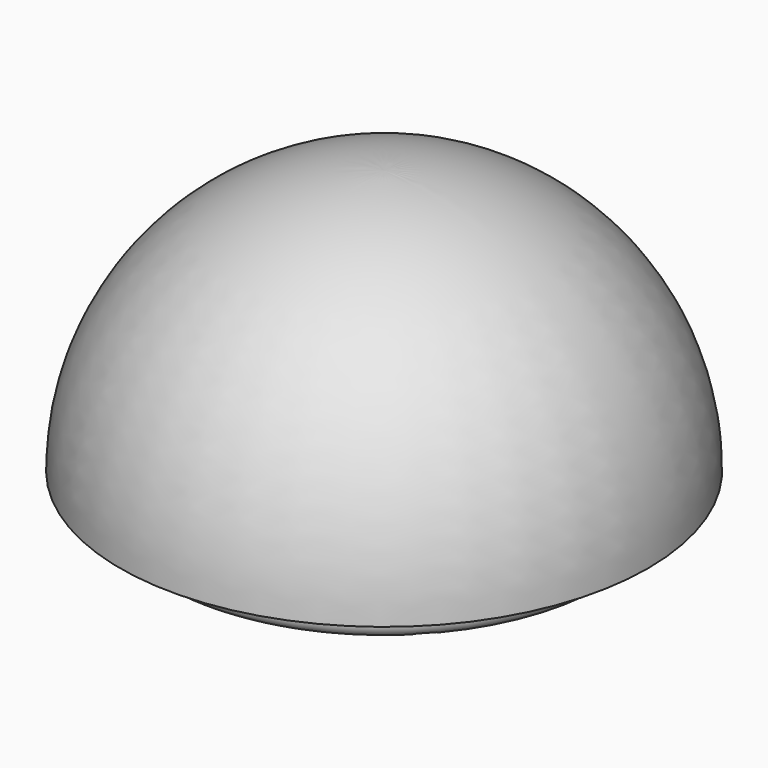
from build123d import *

# Parameters (mm, degrees)
F2_R = 1.27
F3_R = 1.27


with BuildPart() as f1:
    # F0 (on Front) → F1 (revolve)
    with BuildSketch(Plane.XZ):
        with BuildLine():
            Line((0, -3.175), (21.59, -3.175))
            Line((21.59, -3.175), (21.59, 0))
            Line((21.59, 0), (25.4, 0))
            ThreePointArc((25.4, 0), (17.960512, 17.960512), (0, 25.4))
            Line((0, 25.4), (0, -3.175))
        make_face()
    revolve(axis=Axis((0, 0, 11.1125), (0, 0, -1)))

    # F2
    f2_edges = [f1.edges().sort_by_distance(p)[0] for p in [
        (-21.59, 0, 0),
    ]]
    fillet(f2_edges, radius=F2_R)

    # F3
    f3_edges = [f1.edges().sort_by_distance(p)[0] for p in [
        (-21.59, 0, -3.175),
    ]]
    fillet(f3_edges, radius=F3_R)


solid = f1.part
